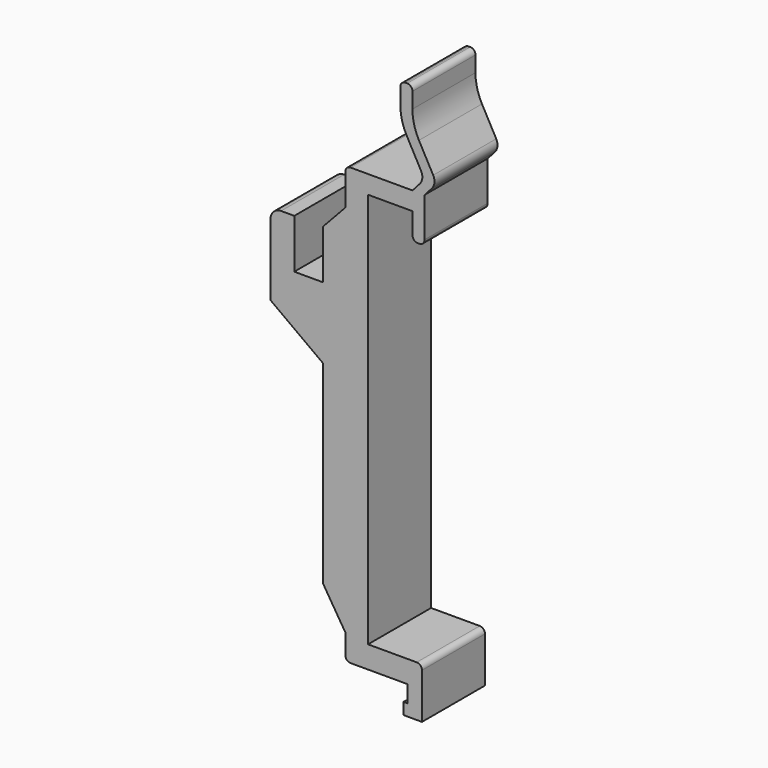
from build123d import *

# Parameters (mm, degrees)
F1_DEPTH = 7.45


with BuildPart() as f1:
    # F0 (on Front) → F1 (new body, symmetric)
    with BuildSketch(Plane.XZ):
        with BuildLine():
            Line((-8.5, -30.0970471648), (-4.3, -36.825))
            Line((-4.3, -36.825), (-4.3, -40.625))
            ThreePointArc((-4.3, -40.625), (-4.0071067812, -41.3321067812), (-3.3, -41.625))
            Line((-3.3, -41.625), (7.45, -41.625))
            Line((7.45, -41.625), (7.45, -44.825))
            Line((7.45, -44.825), (6.7, -44.825))
            Line((6.7, -44.825), (6.7, -47.025))
            Line((6.7, -47.025), (10.2, -47.025))
            Line((10.2, -47.025), (10.2, -38.425))
            ThreePointArc((10.2, -38.425), (9.9071067812, -37.7178932188), (9.2, -37.425))
            Line((9.2, -37.425), (0, -37.425))
            Line((0, -37.425), (0, 37.425))
            Line((0, 37.425), (8.4, 37.425))
            Line((8.4, 37.425), (8.4, 33.425))
            ThreePointArc((8.4, 33.425), (8.6928932188, 32.7178932188), (9.4, 32.425))
            Line((9.4, 32.425), (9.7, 32.425))
            ThreePointArc((9.7, 32.425), (10.4071067812, 32.7178932188), (10.7, 33.425))
            Line((10.7, 33.425), (10.7, 40.875))
            Line((10.7, 40.875), (12.0584372697, 42.3947607825))
            ThreePointArc((12.0584372697, 42.3947607825), (12.5542284753, 43.4993517405), (12.3218441058, 44.6875973417))
            Line((12.3218441058, 44.6875973417), (9.6272657122, 49.6124442137))
            ThreePointArc((9.6272657122, 49.6124442137), (8.7116734449, 51.9351925206), (8.4, 54.4123539124))
            Line((8.4, 54.4123539124), (8.4, 57.375))
            ThreePointArc((8.4, 57.375), (8.1071067812, 58.0821067812), (7.4, 58.375))
            Line((7.4, 58.375), (7.1, 58.375))
            ThreePointArc((7.1, 58.375), (6.3928932188, 58.0821067812), (6.1, 57.375))
            Line((6.1, 57.375), (6.1, 54.4123539124))
            ThreePointArc((6.1, 54.4123539124), (6.4116734449, 51.9351925206), (7.3272657122, 49.6124442137))
            Line((7.3272657122, 49.6124442137), (10.0218441058, 44.6875973417))
            ThreePointArc((10.0218441058, 44.6875973417), (10.2542284753, 43.4993517405), (9.7584372697, 42.3947607825))
            Line((9.7584372697, 42.3947607825), (8.4, 40.875))
            Line((8.4, 40.875), (-3.3, 40.875))
            ThreePointArc((-3.3, 40.875), (-4.0071067812, 40.5821067812), (-4.3, 39.875))
            Line((-4.3, 39.875), (-4.3, 33.875))
            Line((-4.3, 33.875), (-8.5, 29.375))
            Line((-8.5, 29.375), (-8.5, 20.075))
            Line((-8.5, 20.075), (-13.95, 20.075))
            Line((-13.95, 20.075), (-13.95, 29.375))
            Line((-13.95, 29.375), (-16.45, 29.375))
            ThreePointArc((-16.45, 29.375), (-17.8642135624, 28.7892135624), (-18.45, 27.375))
            Line((-18.45, 27.375), (-18.45, 13.875))
            Line((-18.45, 13.875), (-8.5, 6.6029528352))
            Line((-8.5, 6.6029528352), (-8.5, -30.0970471648))
        make_face()
    extrude(amount=F1_DEPTH, both=True)


solid = f1.part
